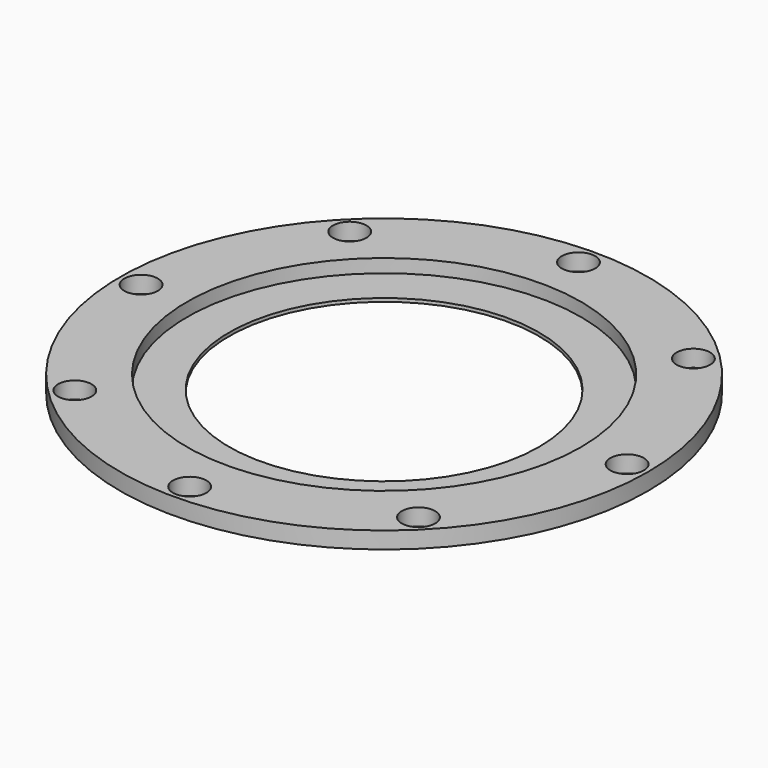
from build123d import *

# Parameters (mm, degrees)
F0_R     = 37.30625
F0_R_2   = 29.36875
F1_DEPTH = 0.635
F0_R_3   = 50.00625
F0_R_4   = 3.175
F2_DEPTH = 3.175


with BuildPart() as f1:
    # F0 (on Top) → F1 (new body)
    with BuildSketch(Plane.XY):
        Circle(F0_R)
        Circle(F0_R_2, mode=Mode.SUBTRACT)
    extrude(amount=F1_DEPTH)

    # F0 (on Top) → F2 (join)
    with BuildSketch(Plane.XY):
        Circle(F0_R_3)
        with Locations((-32.553428, -32.553428)):
            Circle(F0_R_4, mode=Mode.SUBTRACT)
        with Locations((0, -46.0375)):
            Circle(F0_R_4, mode=Mode.SUBTRACT)
        with Locations((-46.0375, 0)):
            Circle(F0_R_4, mode=Mode.SUBTRACT)
        Circle(F0_R, mode=Mode.SUBTRACT)
        with Locations((32.553428, -32.553428)):
            Circle(F0_R_4, mode=Mode.SUBTRACT)
        with Locations((46.0375, 0)):
            Circle(F0_R_4, mode=Mode.SUBTRACT)
        with Locations((-32.553428, 32.553428)):
            Circle(F0_R_4, mode=Mode.SUBTRACT)
        with Locations((0, 46.0375)):
            Circle(F0_R_4, mode=Mode.SUBTRACT)
        with Locations((32.553428, 32.553428)):
            Circle(F0_R_4, mode=Mode.SUBTRACT)
    extrude(amount=F2_DEPTH)


solid = f1.part
